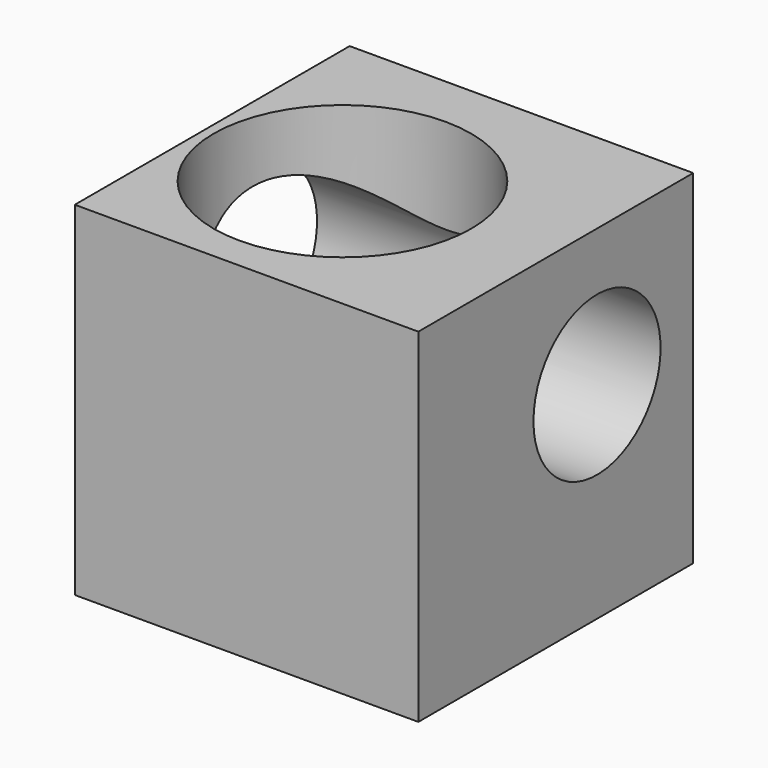
from build123d import *

# Parameters (mm, degrees)
F0_W     = 100
F0_H     = 100
F1_DEPTH = 100
F2_R     = 37.4790948787
F3_DEPTH = 100.001
F4_R     = 23.1250184434
F5_DEPTH = 100.001


with BuildPart() as f1:
    # F0 (on Top) → F1 (new body)
    with BuildSketch(Plane.XY):
        with Locations((-1.539904009, 9.2580467463)):
            Rectangle(F0_W, F0_H)
    extrude(amount=F1_DEPTH)

    # F2 (on face) → F3 (cut, through all)
    with BuildSketch(Plane.XY.offset(100)):
        with Locations((-11.2805515528, 6.312854588)):
            Circle(F2_R)
    extrude(amount=-F3_DEPTH, mode=Mode.SUBTRACT)

    # F4 (on face) → F5 (cut, through all)
    with BuildSketch(Plane(origin=(-51.539904009, 0, 0), x_dir=(0, -1, 0), z_dir=(-1, 0, 0))):
        with Locations((-24.2580467463, 60)):
            Circle(F4_R)
    extrude(amount=-F5_DEPTH, mode=Mode.SUBTRACT)


solid = f1.part
